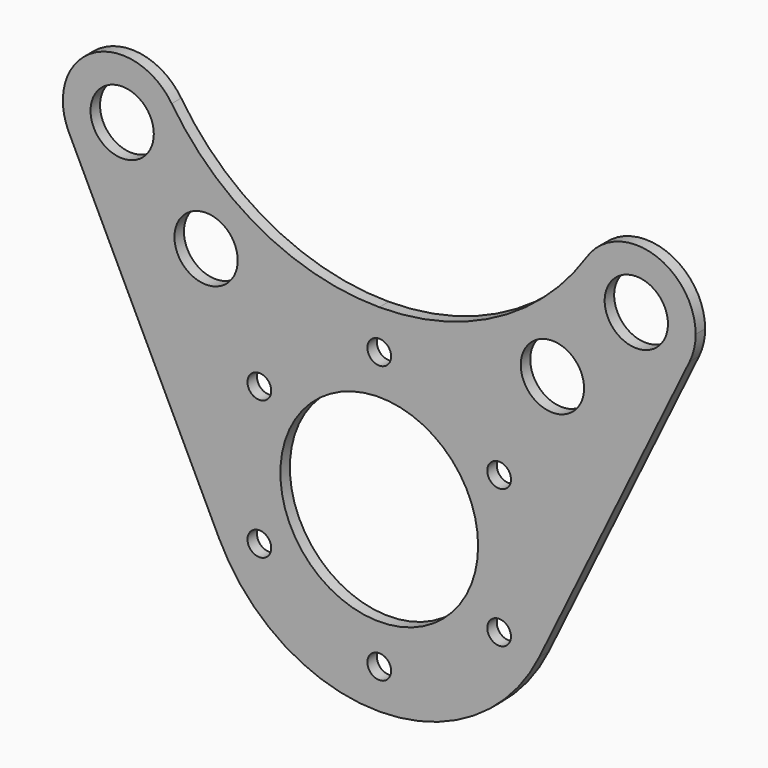
from build123d import *

# Parameters (mm, degrees)
F0_R     = 8
F0_R_2   = 3
F0_R_3   = 25
F1_DEPTH = 1.5


with BuildPart() as f1:
    # F0 (on Front) → F1 (new body, symmetric)
    with BuildSketch(Plane.XZ):
        with BuildLine():
            ThreePointArc((-40.462178, -19.692947), (-38.152212, 23.862286), (0, 45))
            ThreePointArc((0, 45), (-29.80056, 52.513245), (-52.477064, 73.256881))
            ThreePointArc((-52.477064, 73.256881), (-50.632606, 69.310218), (-50, 65))
            ThreePointArc((-50, 65), (-61.631832, 50.383043), (-78.487393, 58.435684))
            Line((-78.487393, 58.435684), (-40.462178, -19.692947))
        make_face()
        with Locations((-43.786764, 43.786829)):
            Circle(F0_R, mode=Mode.SUBTRACT)
        with BuildLine():
            ThreePointArc((-50, 65), (-50.632606, 69.310218), (-52.477064, 73.256881))
            ThreePointArc((-52.477064, 73.256881), (-72.426272, 78.03267), (-78.487393, 58.435684))
            ThreePointArc((-78.487393, 58.435684), (-61.631832, 50.383043), (-50, 65))
        make_face()
        with Locations((-65, 65)):
            Circle(F0_R, mode=Mode.SUBTRACT)
        with BuildLine():
            ThreePointArc((40.462178, -19.692947), (43.850872, -10.104504), (45, 0))
            ThreePointArc((45, 0), (31.819805, 31.819805), (0, 45))
            ThreePointArc((0, 45), (-38.152212, 23.862286), (-40.462178, -19.692947))
            ThreePointArc((-40.462178, -19.692947), (0, -45), (40.462178, -19.692947))
        make_face()
        with Locations((-30.310889, -17.5)):
            Circle(F0_R_2, mode=Mode.SUBTRACT)
        with Locations((0, -35)):
            Circle(F0_R_2, mode=Mode.SUBTRACT)
        with Locations((30.310889, -17.5)):
            Circle(F0_R_2, mode=Mode.SUBTRACT)
        Circle(F0_R_3, mode=Mode.SUBTRACT)
        with Locations((-30.310889, 17.5)):
            Circle(F0_R_2, mode=Mode.SUBTRACT)
        with Locations((30.310889, 17.5)):
            Circle(F0_R_2, mode=Mode.SUBTRACT)
        with Locations((0, 35)):
            Circle(F0_R_2, mode=Mode.SUBTRACT)
        with BuildLine():
            ThreePointArc((0, 45), (31.819805, 31.819805), (45, 0))
            ThreePointArc((45, 0), (43.850872, -10.104504), (40.462178, -19.692947))
            Line((40.462178, -19.692947), (78.487393, 58.435684))
            ThreePointArc((78.487393, 58.435684), (57.573728, 51.96733), (52.477064, 73.256881))
            ThreePointArc((52.477064, 73.256881), (29.80056, 52.513245), (0, 45))
        make_face()
        with Locations((43.786797, 43.786797)):
            Circle(F0_R, mode=Mode.SUBTRACT)
        with BuildLine():
            ThreePointArc((80, 65), (69.310218, 79.367394), (52.477064, 73.256881))
            ThreePointArc((52.477064, 73.256881), (57.573728, 51.96733), (78.487393, 58.435684))
            ThreePointArc((78.487393, 58.435684), (79.616957, 61.631832), (80, 65))
        make_face()
        with Locations((65, 65)):
            Circle(F0_R, mode=Mode.SUBTRACT)
    extrude(amount=F1_DEPTH, both=True)


solid = f1.part
